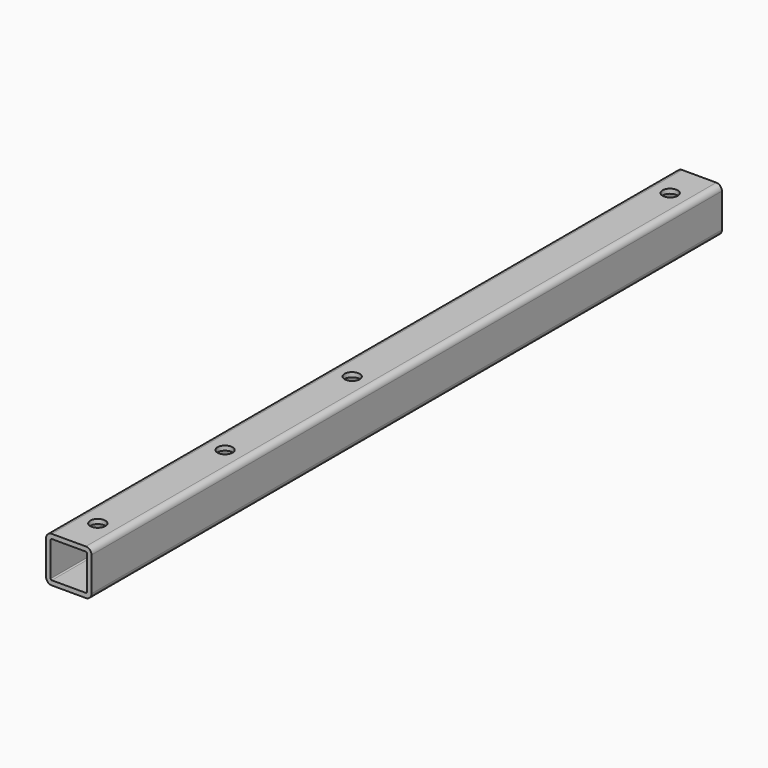
from build123d import *

# Parameters (mm, degrees)
F0_W     = 25.4
F0_H     = 25.4
F1_DEPTH = 220.345
F2_R     = 3.175
F3_T     = -2.54
F5_D     = 8.4328


with BuildPart() as f1:
    # F0 (on Front) → F1 (new body, symmetric)
    with BuildSketch(Plane.XZ):
        Rectangle(F0_W, F0_H)
    extrude(amount=F1_DEPTH, both=True)

    # F2
    f2_edges = [f1.edges().sort_by_distance(p)[0] for p in [
        (-12.7, 0, 12.7),
        (12.7, 0, 12.7),
        (-12.7, 0, -12.7),
        (12.7, 0, -12.7),
    ]]
    fillet(f2_edges, radius=F2_R)

    # F3
    f3_openings = [f1.faces().sort_by_distance(p)[0] for p in [
        (0, -220.345, 0),
        (0, 220.345, 0),
    ]]
    offset(amount=F3_T, openings=f3_openings)

    # F5 (through all)
    with Locations(Plane.XY.offset(12.7)):
        with Locations((0, -200.025), (0, -22.225), (0, 200.025), (0, -111.125)):
            Hole(F5_D / 2)


solid = f1.part
